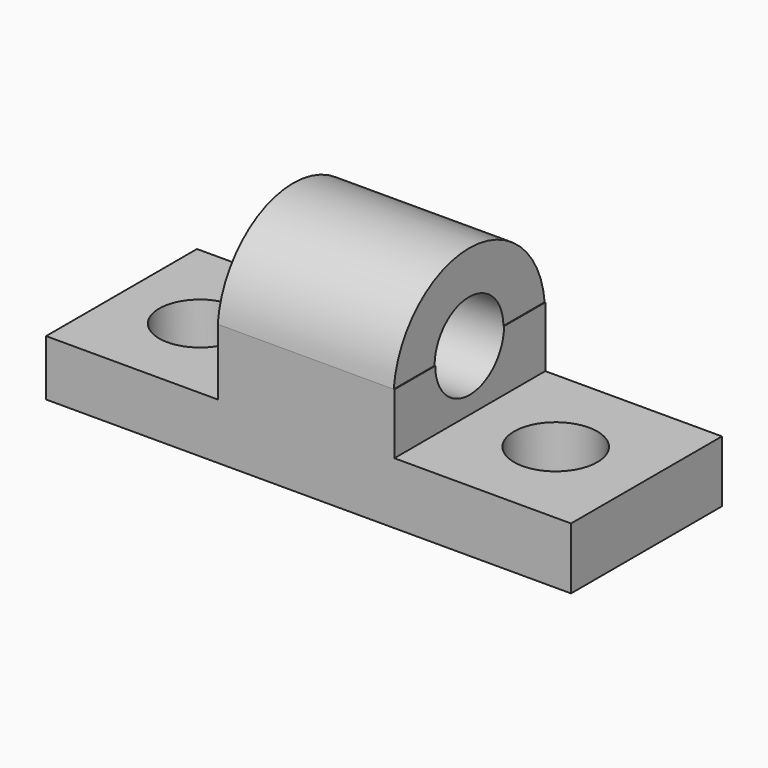
from build123d import *

# Parameters (mm, degrees)
F0_W      = 74.5829641819
F0_H      = 30.8565702289
F1_DEPTH  = 25.4
F2_DEPTH  = 25.4
F3_DEPTH  = 25.4
F4_DEPTH  = 25.4
F6_DEPTH  = 25.4
F7_DEPTH  = 151.384
F8_DEPTH  = 25.4
F9_W      = 39.2481669128
F9_H      = 17.8465423578
F12_DEPTH = 60.198
F10_W     = 38.687005946
F10_H     = 16.2959610515
F13_DEPTH = 64.262
F14_DEPTH = 39.116
F15_DEPTH = 38.862
F16_DEPTH = 25.4
F17_DEPTH = 25.4
F19_DEPTH = 107.442
F21_DEPTH = 58.166
F22_DEPTH = 25.4
F23_DEPTH = 25.4
F24_DEPTH = 16.51
F25_DEPTH = 18.288
F26_R     = 11.2114596222
F27_DEPTH = 45.72
F28_R     = 10.9420459353
F29_DEPTH = 60.452


with BuildPart() as f1:
    # F0 (on Front) → F1 (new body)
    with BuildSketch(Plane.XZ):
        with Locations((-37.291482091, 15.4282851145)):
            Rectangle(F0_W, F0_H)
    extrude(amount=F1_DEPTH)

    # F2 (add): a face of the model
    f2_faces = [f1.faces().sort_by_distance(p)[0] for p in [
        (-74.5829641819, -12.7, 15.4282851145),
    ]]
    extrude(f2_faces, amount=F2_DEPTH)

    # F3 (add): a face of the model
    f3_faces = [f1.faces().sort_by_distance(p)[0] for p in [
        (-49.991482091, -12.7, 30.8565702289),
    ]]
    extrude(f3_faces, amount=F3_DEPTH)

    # F4 (add): a face of the model
    f4_faces = [f1.faces().sort_by_distance(p)[0] for p in [
        (-49.991482091, -25.4, 28.1282851145),
    ]]
    extrude(f4_faces, amount=F4_DEPTH)

    # F5 (on face) → F6 (cut)
    with BuildSketch(Plane(origin=(-99.9829641819, 0, 0), x_dir=(0, -1, 0), z_dir=(-1, 0, 0))):
        with BuildLine():
            ThreePointArc((0, 32.8871821457), (25.4, 56.0189424458), (50.8, 32.8871821457))
            Line((50.8, 32.8871821457), (50.8, 56.2565702289))
            Line((50.8, 56.2565702289), (0, 56.2565702289))
            Line((0, 56.2565702289), (0, 32.8871821457))
        make_face()
    extrude(amount=-F6_DEPTH, mode=Mode.SUBTRACT)

    # F7 (cut): a face of the model
    f7_faces = [f1.faces().sort_by_distance(p)[0] for p in [
        (-74.5829641819, -25.4, 56.0748599591),
    ]]
    extrude(f7_faces, amount=-F7_DEPTH, mode=Mode.SUBTRACT)

    # F8 (add): a face of the model
    f8_faces = [f1.faces().sort_by_distance(p)[0] for p in [
        (0, -25.4, 25.6193021496),
    ]]
    extrude(f8_faces, amount=F8_DEPTH)

    # F9 (on face) → F12 (cut)
    with BuildSketch(Plane.XZ.offset(50.8)):
        with Locations((-80.3588807255, 23.9639109668)):
            Rectangle(F9_W, F9_H)
    extrude(amount=-F12_DEPTH, mode=Mode.SUBTRACT)

    # F10 (on face) → F13 (cut)
    with BuildSketch(Plane.XZ.offset(50.8)):
        with Locations((6.056497027, 24.7392016199)):
            Rectangle(F10_W, F10_H)
    extrude(amount=-F13_DEPTH, mode=Mode.SUBTRACT)

    # F14 (cut): a face of the model
    f14_faces = [f1.faces().sort_by_distance(p)[0] for p in [
        (-99.9829641819, -25.4, 42.6317575384),
    ]]
    extrude(f14_faces, amount=-F14_DEPTH, mode=Mode.SUBTRACT)

    # F15 (cut): a face of the model
    f15_faces = [f1.faces().sort_by_distance(p)[0] for p in [
        (25.4, -25.4, 42.6317575384),
    ]]
    extrude(f15_faces, amount=-F15_DEPTH, mode=Mode.SUBTRACT)

    # F16 (add): a face of the model
    f16_faces = [f1.faces().sort_by_distance(p)[0] for p in [
        (-99.9829641819, -25.4, 7.520319894),
    ]]
    extrude(f16_faces, amount=F16_DEPTH)

    # F17 (add): a face of the model
    f17_faces = [f1.faces().sort_by_distance(p)[0] for p in [
        (25.4, -25.4, 8.2956105471),
    ]]
    extrude(f17_faces, amount=F17_DEPTH)

    # F18 (on face) → F19 (cut)
    with BuildSketch(Plane.YZ.offset(-13.287005946)):
        with BuildLine():
            Line((-35.7976081282, 32.8871821457), (-15.1284308589, 32.8871821457))
            ThreePointArc((-15.1284308589, 32.8871821457), (-25.4630194936, 41.1995819956), (-35.7976081282, 32.8871821457))
        make_face()
    extrude(amount=-F19_DEPTH, mode=Mode.SUBTRACT)

    # F20 (on face) → F21 (cut)
    with BuildSketch(Plane(origin=(-60.7347972691, 0, 0), x_dir=(0, -1, 0), z_dir=(-1, 0, 0))):
        with BuildLine():
            ThreePointArc((13.880819181, 32.8871821457), (25.4630194936, 21.3049818331), (37.0452198061, 32.8871821457))
            Line((37.0452198061, 32.8871821457), (35.7976081282, 32.8871821457))
            Line((35.7976081282, 32.8871821457), (15.1284308589, 32.8871821457))
            Line((15.1284308589, 32.8871821457), (13.880819181, 32.8871821457))
        make_face()
        with BuildLine():
            Line((35.7976081282, 32.8871821457), (37.0452198061, 32.8871821457))
            ThreePointArc((37.0452198061, 32.8871821457), (25.4630194936, 44.4693824582), (13.880819181, 32.8871821457))
            Line((13.880819181, 32.8871821457), (15.1284308589, 32.8871821457))
            Line((15.1284308589, 32.8871821457), (35.7976081282, 32.8871821457))
        make_face()
    extrude(amount=-F21_DEPTH, mode=Mode.SUBTRACT)

    # F22 (cut): a face of the model
    f22_faces = [f1.faces().sort_by_distance(p)[0] for p in [
        (-60.7347972691, -36.4214139672, 33.146168018),
    ]]
    extrude(f22_faces, amount=F22_DEPTH, mode=Mode.SUBTRACT)

    # F23 (cut): a face of the model
    f23_faces = [f1.faces().sort_by_distance(p)[0] for p in [
        (-60.7347972691, -36.4214139672, 33.146168018),
    ]]
    extrude(f23_faces, amount=-F23_DEPTH, mode=Mode.SUBTRACT)

    # F24 (cut): a face of the model
    f24_faces = [f1.faces().sort_by_distance(p)[0] for p in [
        (50.8, -25.4, 8.2956105471),
    ]]
    extrude(f24_faces, amount=-F24_DEPTH, mode=Mode.SUBTRACT)

    # F25 (cut): a face of the model
    f25_faces = [f1.faces().sort_by_distance(p)[0] for p in [
        (-125.3829641819, -25.4, 7.520319894),
    ]]
    extrude(f25_faces, amount=-F25_DEPTH, mode=Mode.SUBTRACT)

    # F26 (on face) → F27 (cut)
    with BuildSketch(Plane.XY.offset(16.5912210941)):
        with Locations((9.9650174379, -25.5547314882)):
            Circle(F26_R)
    extrude(amount=-F27_DEPTH, mode=Mode.SUBTRACT)

    # F28 (on face) → F29 (cut)
    with BuildSketch(Plane.XY.offset(15.0406397879)):
        with Locations((-85.4209959507, -26.1354632676)):
            Circle(F28_R)
    extrude(amount=-F29_DEPTH, mode=Mode.SUBTRACT)


solid = f1.part
